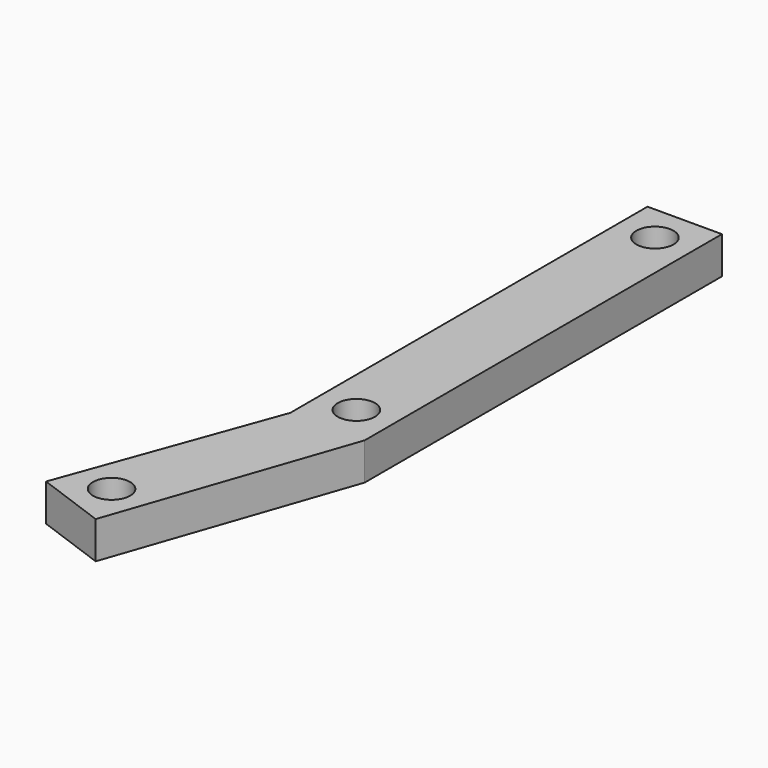
from build123d import *

# Parameters (mm, degrees)
F0_W     = 50.8
F0_H     = 25.4
F1_DEPTH = 304.8
F3_DEPTH = 25.4
F4_R     = 12.7
F5_DEPTH = 25.4
F6_R     = 12.7
F7_DEPTH = 25.4
F8_R     = 12.7
F9_DEPTH = 25.4


with BuildPart() as f1:
    # F0 (on Front) → F1 (new body)
    with BuildSketch(Plane.XZ):
        with Locations((-25.4, 12.7)):
            Rectangle(F0_W, F0_H)
    extrude(amount=F1_DEPTH)

    # F2 (on face) → F3 (join)
    with BuildSketch(Plane.XY.offset(25.4)):
        Polygon((0, -304.8), (-50.8, -304.8), (-102.92387, -448.009155), (-55.187485, -465.383779), align=None)
    extrude(amount=-F3_DEPTH)

    # F4 (on face) → F5 (cut)
    with BuildSketch(Plane.XY.offset(25.4)):
        with Locations((-25.4, -25.4)):
            Circle(F4_R)
    extrude(amount=-F5_DEPTH, mode=Mode.SUBTRACT)

    # F6 (on face) → F7 (cut)
    with BuildSketch(Plane.XY.offset(25.4)):
        with Locations((-70.368366, -432.828274)):
            Circle(F6_R)
    extrude(amount=-F7_DEPTH, mode=Mode.SUBTRACT)

    # F8 (on face) → F9 (cut)
    with BuildSketch(Plane.XY.offset(25.4)):
        with Locations((-25.4, -280.161023)):
            Circle(F8_R)
    extrude(amount=-F9_DEPTH, mode=Mode.SUBTRACT)


solid = f1.part
